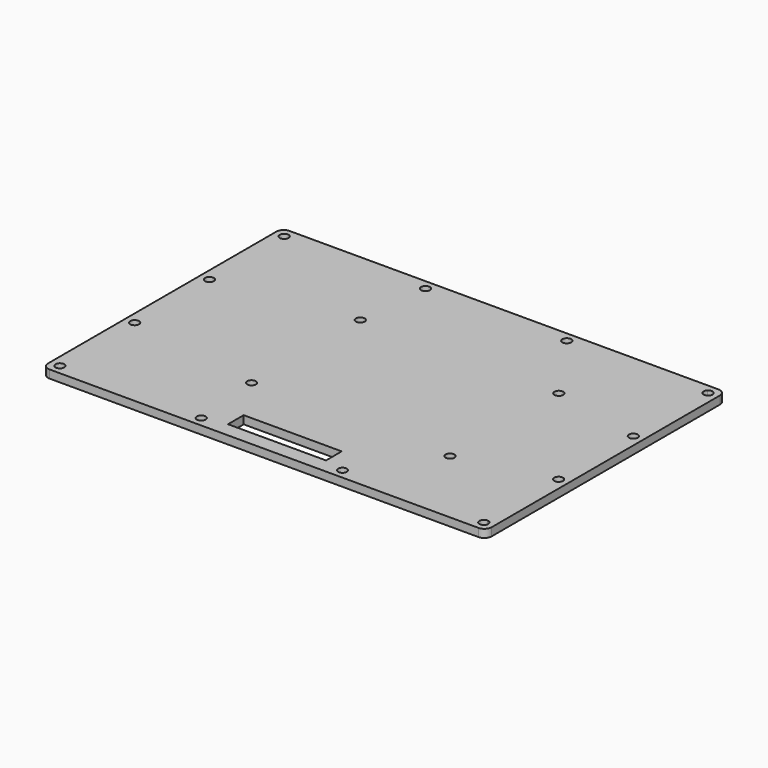
from build123d import *

# Parameters (mm, degrees)
CYLINDER004_R     = 1.8
CYLINDER004_DEPTH = 20
ARRAY007_X_COUNT  = 2
ARRAY007_X_PITCH  = 81
ARRAY007_Y_COUNT  = 2
ARRAY007_Y_PITCH  = 55.5
CYLINDER003_R     = 1.8
CYLINDER003_DEPTH = 30
ARRAY004_X_COUNT  = 4
ARRAY004_X_PITCH  = 57.666667
ARRAY005_Y_COUNT  = 2
ARRAY005_Y_PITCH  = 114.4
ARRAY002_Y_COUNT  = 4
ARRAY002_Y_PITCH  = 38.133333
ARRAY003_X_COUNT  = 2
ARRAY003_X_PITCH  = 173
BOX019_W          = 40
BOX019_H          = 8
BOX019_DEPTH      = 10
BOX018_W          = 181
BOX018_H          = 122.4
BOX018_DEPTH      = 3.3
FILLET001_R       = 3


with BuildPart() as array007:
    # Cylinder004 → Cylinder004 (new body)
    with BuildSketch(Plane(origin=(59, 33, -7), x_dir=(1, 0, 0), z_dir=(0, 0, 1))):
        Circle(CYLINDER004_R)
    extrude(amount=CYLINDER004_DEPTH)

    # Array007 X: Array007 ×2


with BuildPart() as array007_1:
    add(array007.part)
    with Locations(*[(i * ARRAY007_X_PITCH, 0, 0) for i in range(1, ARRAY007_X_COUNT)]):
        add(array007.part)

    # Array007 Y: Array007 ×2


with BuildPart() as array007_2:
    add(array007_1.part)
    with Locations(*[(0, i * ARRAY007_Y_PITCH, 0) for i in range(1, ARRAY007_Y_COUNT)]):
        add(array007_1.part)


with BuildPart() as cylinder003:
    # Cylinder003 → Cylinder003 (new body)
    with BuildSketch(Plane(origin=(4, 4, 1), x_dir=(1, 0, 0), z_dir=(0, 0, 1))):
        Circle(CYLINDER003_R)
    extrude(amount=CYLINDER003_DEPTH)


with BuildPart() as array005:
    # Array004 base: copy of Cylinder003
    add(cylinder003.part)

    # Array004 X: Array005 ×4


with BuildPart() as array005_1:
    add(array005.part)
    with Locations(*[(i * ARRAY004_X_PITCH, 0, 0) for i in range(1, ARRAY004_X_COUNT)]):
        add(array005.part)

    # Array005 Y: Array005 ×2


with BuildPart() as array005_2:
    add(array005_1.part)
    with Locations(*[(0, i * ARRAY005_Y_PITCH, 0) for i in range(1, ARRAY005_Y_COUNT)]):
        add(array005_1.part)


with BuildPart() as side_wider_holes_clone:
    # Array002 base: copy of Cylinder003
    add(cylinder003.part)

    # Array002 Y: side wider holes clone ×4


with BuildPart() as side_wider_holes_clone_1:
    add(side_wider_holes_clone.part)
    with Locations(*[(0, i * ARRAY002_Y_PITCH, 0) for i in range(1, ARRAY002_Y_COUNT)]):
        add(side_wider_holes_clone.part)

    # Array003 X: side wider holes clone ×2


with BuildPart() as side_wider_holes_clone_2:
    add(side_wider_holes_clone_1.part)
    with Locations(*[(i * ARRAY003_X_PITCH, 0, 0) for i in range(1, ARRAY003_X_COUNT)]):
        add(side_wider_holes_clone_1.part)

    # Fusion009: union Array005
    add(array005_2.part)


with BuildPart() as side_wider_holes_clone_3:
    # Body024 placement: moved
    add(side_wider_holes_clone_2.part.moved(Location((0, 0, -8))))


with BuildPart() as fusion006:
    # Box019 → Box019 (new body)
    with BuildSketch(Plane(origin=(71, 6, -2), x_dir=(1, 0, 0), z_dir=(0, 0, 1))):
        with Locations((20, 4)):
            Rectangle(BOX019_W, BOX019_H)
    extrude(amount=BOX019_DEPTH)

    # Fusion006: union Array007, side wider holes clone
    add(array007_2.part)
    add(side_wider_holes_clone_3.part)


with BuildPart() as display_back_cut:
    # Box018 → Box018 (new body)
    with BuildSketch(Plane.XY):
        with Locations((90.5, 61.2)):
            Rectangle(BOX018_W, BOX018_H)
    extrude(amount=BOX018_DEPTH)

    # Fillet001
    fillet001_edges = [display_back_cut.edges().sort_by_distance(p)[0] for p in [
        (0, 0, 1.65),
        (0, 122.4, 1.65),
        (181, 0, 1.65),
        (181, 122.4, 1.65),
    ]]
    fillet(fillet001_edges, radius=FILLET001_R)

    # Cut003: cut Fusion006
    add(fusion006.part, mode=Mode.SUBTRACT)


solid = display_back_cut.part
